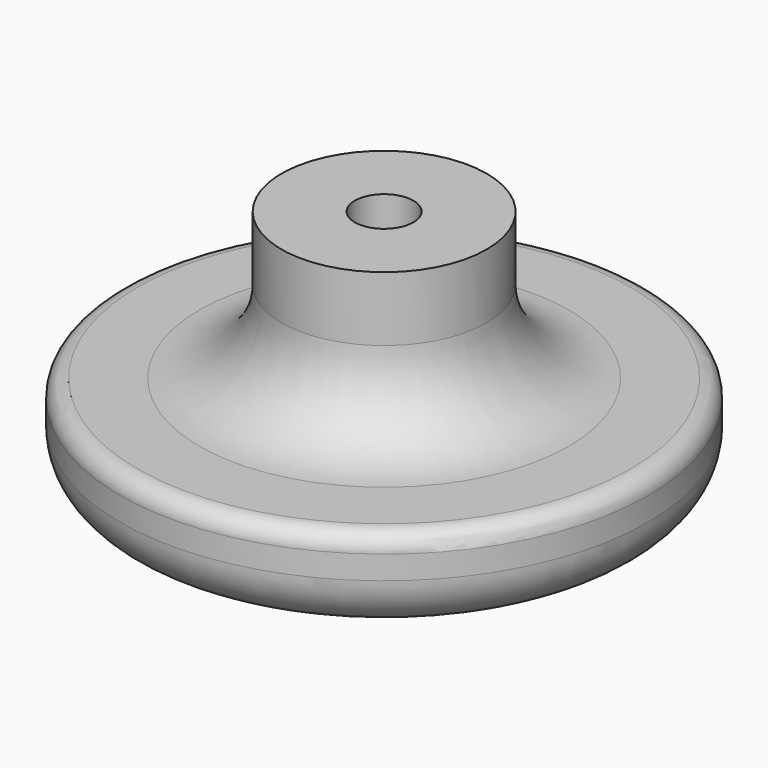
from build123d import *

# Parameters (mm, degrees)
SKETCH_R        = 22.5
PAD_DEPTH       = 8
SKETCH001_R     = 8.75
PAD001_DEPTH    = 20.5
SKETCH002_R     = 6
SKETCH002_R_2   = 5
PAD002_DEPTH    = 13
FILLET_R        = 6.99
FILLET001_R     = 4.5
POCKET_DEPTH    = 4.5
FILLET002_R     = 1.5
SKETCH008_R     = 2.5
POCKET001_DEPTH = 18
SKETCH009_W     = 10
SKETCH009_H     = 10
SKETCH009_R     = 0.005
PAD007_DEPTH    = 0.1


with BuildPart() as part:
    # Sketch (on XY_Plane of Origin) → Pad (new body)
    with BuildSketch(Plane.XY):
        Circle(SKETCH_R)
    extrude(amount=PAD_DEPTH)

    # Sketch001 (on XY_Plane of Origin) → Pad001 (join)
    with BuildSketch(Plane.XY):
        Circle(SKETCH001_R)
    extrude(amount=PAD001_DEPTH)

    # Sketch002 (on XY_Plane of Origin) → Pad002 (join)
    with BuildSketch(Plane.XY):
        Circle(SKETCH002_R)
        Circle(SKETCH002_R_2, mode=Mode.SUBTRACT)
    extrude(amount=PAD002_DEPTH)

    # Fillet
    fillet_edges = [part.edges().sort_by_distance(p)[0] for p in [
        (-8.75, 0, 8),
    ]]
    fillet(fillet_edges, radius=FILLET_R)

    # Fillet001
    fillet001_edges = [part.edges().sort_by_distance(p)[0] for p in [
        (-22.5, 0, 0),
    ]]
    fillet(fillet001_edges, radius=FILLET001_R)

    # Sketch003 (on XY_Plane of Origin) → Pocket (cut)
    with BuildSketch(Plane.XY.offset(6)):
        Polygon((4.25, 2.453739), (0, 4.907477), (-4.25, 2.453739), (-4.25, -2.453739), (0, -4.907477), (4.25, -2.453739), align=None)
    extrude(amount=POCKET_DEPTH, mode=Mode.SUBTRACT)

    # Fillet002
    fillet002_edges = [part.edges().sort_by_distance(p)[0] for p in [
        (-22.5, 0, 8),
    ]]
    fillet(fillet002_edges, radius=FILLET002_R)

    # Sketch008 (on XY_Plane of Origin) → Pocket001 (cut)
    with BuildSketch(Plane.XY.offset(3)):
        Circle(SKETCH008_R)
    extrude(amount=POCKET001_DEPTH, mode=Mode.SUBTRACT)

    # Sketch009 (on XY_Plane of Origin) → Pad007 (join)
    with BuildSketch(Plane.XY.offset(10.5)):
        Rectangle(SKETCH009_W, SKETCH009_H)
        Circle(SKETCH009_R, mode=Mode.SUBTRACT)
    extrude(amount=PAD007_DEPTH)


solid = part.part
